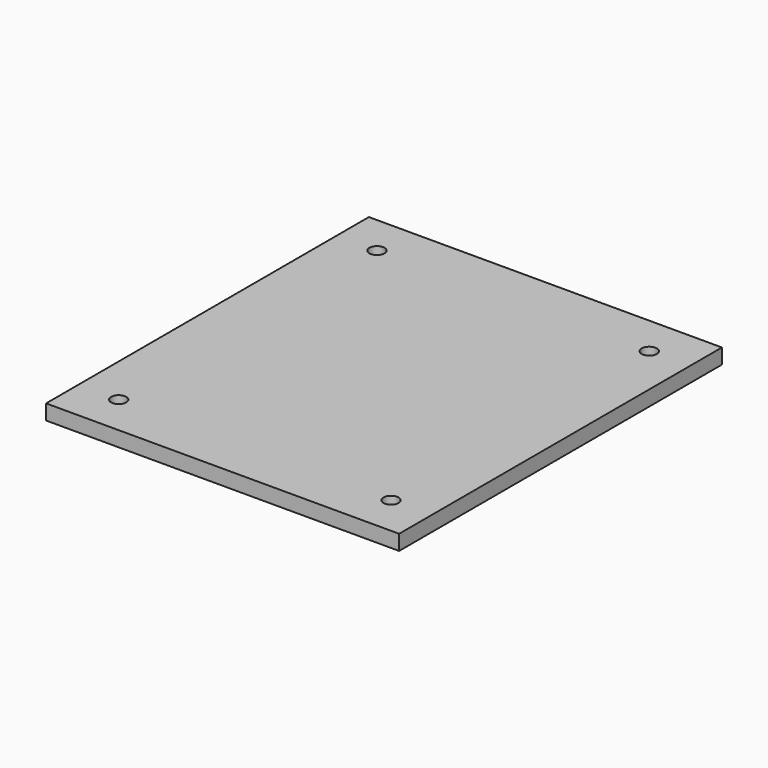
from build123d import *

# Parameters (mm, degrees)
SKETCH_W  = 70
SKETCH_H  = 80
SKETCH_R  = 1.5
PAD_DEPTH = 3


with BuildPart() as part:
    # Sketch → Pad (new body)
    with BuildSketch(Plane.XY):
        Rectangle(SKETCH_W, SKETCH_H)
        with Locations((-27, 32)):
            Circle(SKETCH_R, mode=Mode.SUBTRACT)
        with Locations((27, 32)):
            Circle(SKETCH_R, mode=Mode.SUBTRACT)
        with Locations((27, -32)):
            Circle(SKETCH_R, mode=Mode.SUBTRACT)
        with Locations((-27, -32)):
            Circle(SKETCH_R, mode=Mode.SUBTRACT)
    extrude(amount=PAD_DEPTH)


solid = part.part
